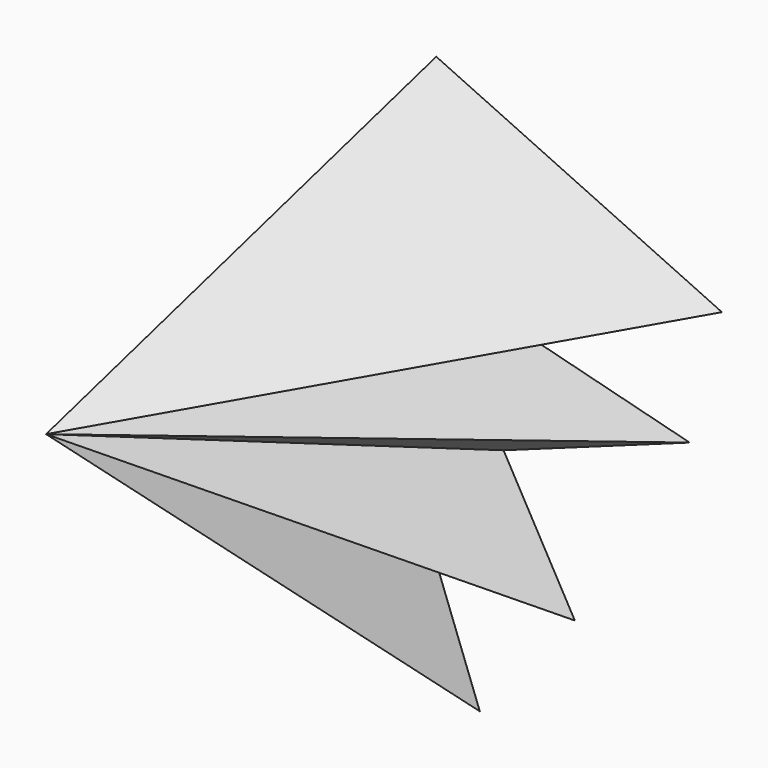
from build123d import *


with BuildPart() as f3:
    # F0 (on Front) → F3 section 0
    with BuildSketch(Plane.XZ, mode=Mode.PRIVATE) as f3_s0:
        Polygon((-26.232786, 32.790981), (-41.38951, 0), (-23.026558, -8.598524), (-26.232786, 0), (-16.031148, -0.437213), (-21.277705, 8.89), (-7.578361, 13.845082), (-20.111803, 17.051311), (-5.202923, 23.070509), align=None)
    loft([f3_s0.sketch, Vertex(-34.639131, -25.4, 15.916297)])


solid = f3.part
